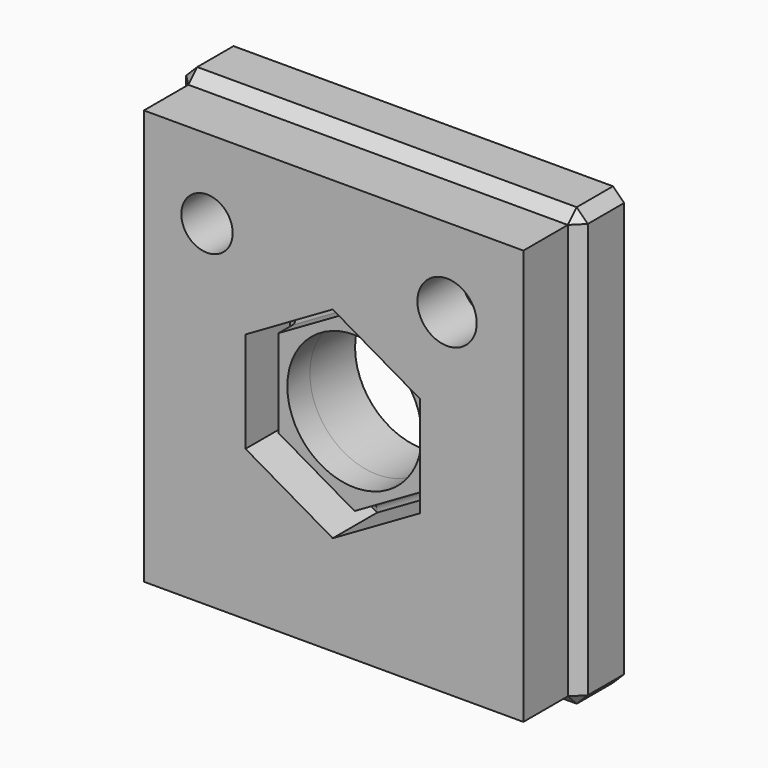
from build123d import *

# Parameters (mm, degrees)
F1_DEPTH  = 38.1
F3_R      = 30.2729737571
F4_DEPTH  = 94.742
F5_W      = 180.7619705796
F5_H      = 196.721881628
F6_DEPTH  = 25.4
F7_DEPTH  = 107.1100030094
F8_R      = 5
F9_SIZE   = 5
F11_W     = 170.7619705796
F11_H     = 186.721881628
F11_R     = 11.555445332
F11_R_2   = 13.3506180186
F12_DEPTH = 25


with BuildPart() as f1:
    # F0 (on Front) → F1 (new body)
    with BuildSketch(Plane.XZ):
        Polygon((34.2515595257, -19.7751471123), (34.2515595257, 19.7751471123), (0, 39.5502942247), (-34.2515595257, 19.7751471123), (-34.2515595257, -19.7751471123), (0, -39.5502942247), align=None)
    extrude(amount=F1_DEPTH)

    # F3 (on face) → F4 (cut)
    with BuildSketch(Plane(origin=(0, 0, 0), x_dir=(-1, 0, 0), z_dir=(0, 1, 0))):
        Circle(F3_R)
    extrude(amount=-F4_DEPTH, mode=Mode.SUBTRACT)

    # F5 (on Front) → F6 (join)
    with BuildSketch(Plane.XZ):
        with Locations((0.411581248, 3.1727701426)):
            Rectangle(F5_W, F5_H)
    extrude(amount=F6_DEPTH)

    # F7 (cut): a face of the model
    f7_faces = [f1.faces().sort_by_distance(p)[0] for p in [
        (0, -25.4, 0),
    ]]
    extrude(f7_faces, amount=-F7_DEPTH, mode=Mode.SUBTRACT)

    # F8
    f8_edges = [f1.edges().sort_by_distance(p)[0] for p in [
        (17.12578, -25.4, 29.662721),
        (-17.12578, -25.4, 29.662721),
        (34.25156, -25.4, 0),
        (17.12578, -25.4, -29.662721),
        (-17.12578, -25.4, -29.662721),
        (-34.25156, -25.4, 0),
    ]]
    fillet(f8_edges, radius=F8_R)

    # F9
    f9_edges = [f1.edges().sort_by_distance(p)[0] for p in [
        (90.792567, -12.7, 101.533711),
        (19.62578, -25.4, 33.992848),
        (39.25156, -25.4, 0),
        (-19.62578, -25.4, 33.992848),
        (19.62578, -25.4, -33.992848),
        (-39.25156, -25.4, 0),
        (-19.62578, -25.4, -33.992848),
        (0.411581, -25.4, 101.533711),
        (90.792567, -25.4, 3.17277),
        (-89.969404, -25.4, 3.17277),
        (0.411581, -25.4, -95.188171),
        (-89.969404, -12.7, 101.533711),
        (-89.969404, -12.7, -95.188171),
        (90.792567, -12.7, -95.188171),
    ]]
    chamfer(f9_edges, length=F9_SIZE)

    # F11 (on face) → F12 (join)
    with BuildSketch(Plane.XZ.offset(25.4)):
        with Locations((0.411581248, 3.1727701426)):
            Rectangle(F11_W, F11_H)
        Polygon((-39.2515595257, -22.6618984583), (-39.2515595257, 22.6618984583), (0, 45.3237969166), (39.2515595257, 22.6618984583), (39.2515595257, -22.6618984583), (0, -45.3237969166), align=None, mode=Mode.SUBTRACT)
        with Locations((-56.5757006407, 60.9375908971)):
            Circle(F11_R, mode=Mode.SUBTRACT)
        with Locations((51.4449626207, 60.9523579478)):
            Circle(F11_R_2, mode=Mode.SUBTRACT)
    extrude(amount=F12_DEPTH)


solid = f1.part
